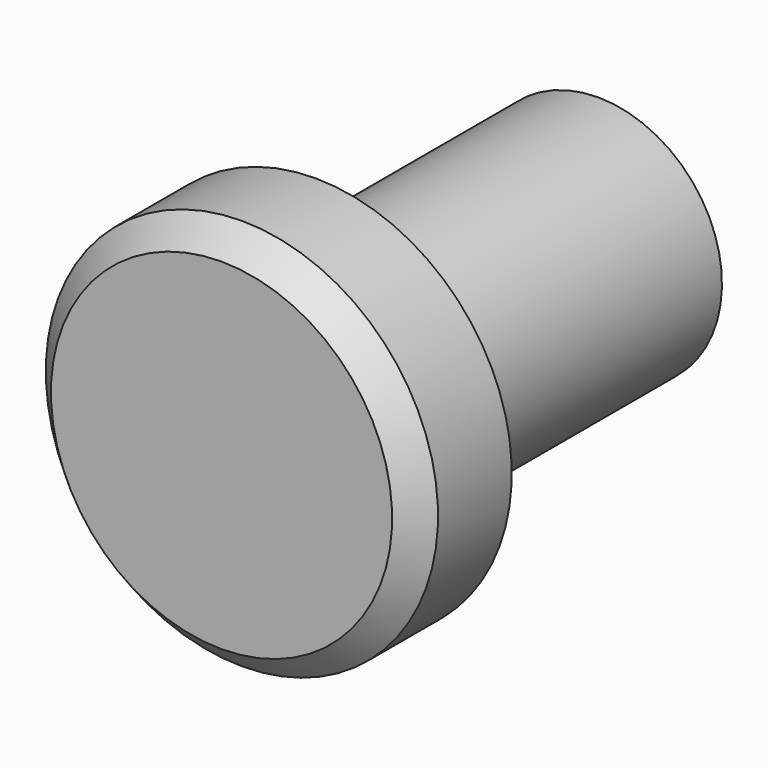
from build123d import *

# Parameters (mm, degrees)
F2_SIZE = 0.8255


with BuildPart() as f1:
    # F0 (on Right) → F1 (revolve)
    with BuildSketch(Plane.YZ):
        Polygon((0, 6.35), (0, 0), (2.689886, 0), (4.445, 2.921), (15.24, 2.921), (15.24, 4.0132), (3.81, 4.0132), (3.81, 6.35), align=None)
    revolve(axis=Axis((0, 1.344943, 0), (0, -1, 0)))

    # F2
    f2_edges = [f1.edges().sort_by_distance(p)[0] for p in [
        (0, 15.24, -2.921),
        (0, 0, -6.35),
    ]]
    chamfer(f2_edges, length=F2_SIZE)


solid = f1.part
